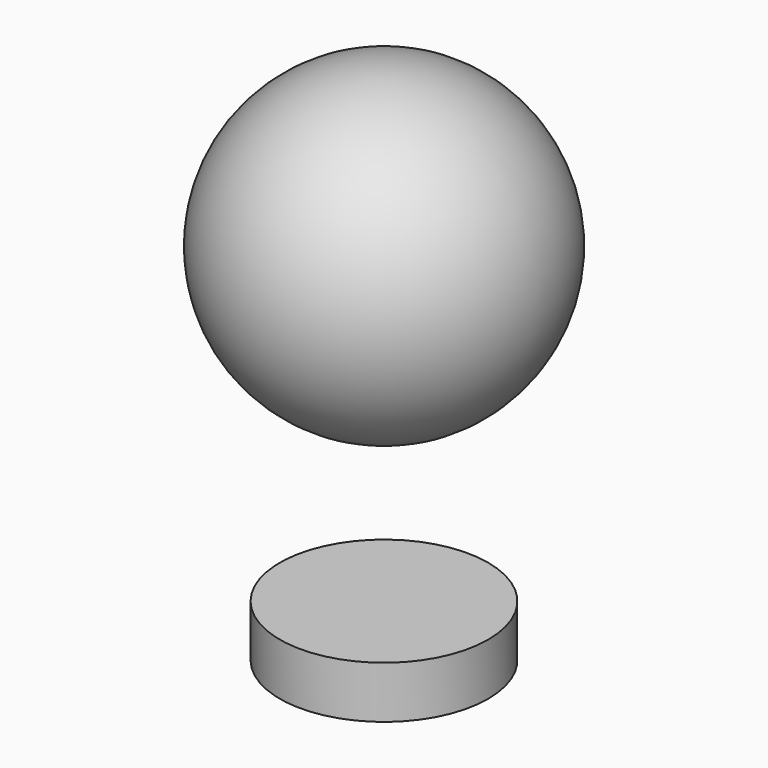
from build123d import *

# Parameters (mm, degrees)
F0_W = 2
F0_H = 1


with BuildPart() as f1:
    # F0 (on Front) → F1 (revolve)
    with BuildSketch(Plane.XZ):
        with BuildLine():
            Line((0, 10), (0, 4))
            ThreePointArc((0, 4), (3, 7), (0, 10))
        make_face()
        with Locations((1, 0.5)):
            Rectangle(F0_W, F0_H)
    revolve(axis=Axis((0, 0, 7), (0, 0, -1)))


solid = f1.part
